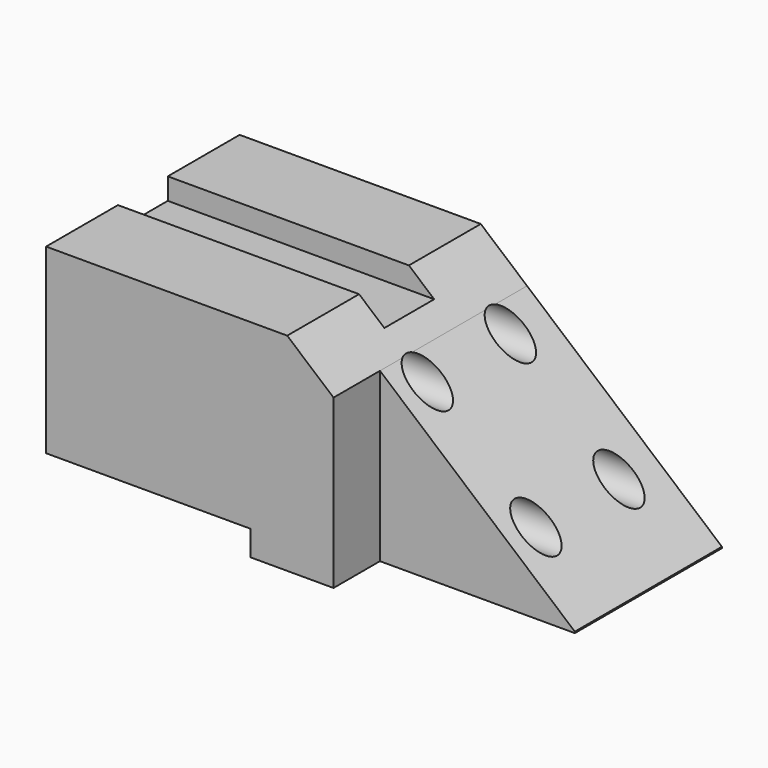
from build123d import *

# Parameters (mm, degrees)
F0_W      = 118.301205337
F0_H      = 59.3464635313
F1_DEPTH  = 50.8
F2_W      = 52.4965906516
F2_H      = 14.247585088
F3_DEPTH  = 112.014
F4_W      = 50.1409089193
F4_H      = 6.169681903
F5_DEPTH  = 123.19
F7_DEPTH  = 96.52
F8_W      = 15.2773074806
F8_H      = 5.2911678412
F9_DEPTH  = 203.962
F10_R     = 4.445
F11_DEPTH = 210.566


with BuildPart() as f1:
    # F0 (on Top) → F1 (new body)
    with BuildSketch(Plane.XY):
        Rectangle(F0_W, F0_H)
    extrude(amount=F1_DEPTH)

    # F2 (on face) → F3 (cut)
    with BuildSketch(Plane.XY.offset(50.8)):
        with Locations((37.6030090265, -22.5494392216)):
            Rectangle(F2_W, F2_H)
    extrude(amount=-F3_DEPTH, mode=Mode.SUBTRACT)

    # F4 (on face) → F5 (cut)
    with BuildSketch(Plane.XZ.offset(29.6732317656)):
        with Locations((-34.0801482089, 3.0848409515)):
            Rectangle(F4_W, F4_H)
    extrude(amount=-F5_DEPTH, mode=Mode.SUBTRACT)

    # F6 (on face) → F7 (cut)
    with BuildSketch(Plane.XZ.offset(29.6732317656)):
        Polygon((11.3547137007, 50.8), (0, 50.8), (11.3547137007, 41.1124470571), align=None)
        Polygon((11.3547137007, 50.8), (11.3547137007, 41.1124470571), (59.5423281193, 0), (59.5423281193, 50.8), align=None)
    extrude(amount=-F7_DEPTH, mode=Mode.SUBTRACT)

    # F8 (on face) → F9 (cut)
    with BuildSketch(Plane(origin=(-59.1506026685, 0, 0), x_dir=(0, -1, 0), z_dir=(-1, 0, 0))):
        with Locations((0, 48.1544160794)):
            Rectangle(F8_W, F8_H)
    extrude(amount=-F9_DEPTH, mode=Mode.SUBTRACT)

    # F10 (on face) → F11 (cut)
    with BuildSketch(Plane(origin=(-59.1506026685, 0, 0), x_dir=(0, -1, 0), z_dir=(-1, 0, 0))):
        with Locations((-18.4111148119, 36.9201600552)):
            Circle(F10_R)
        with Locations((7.0510655642, 36.9201600552)):
            Circle(F10_R)
        with Locations((7.0510655642, 14.2000615597)):
            Circle(F10_R)
        with Locations((-18.4111148119, 14.2000615597)):
            Circle(F10_R)
    extrude(amount=-F11_DEPTH, mode=Mode.SUBTRACT)


solid = f1.part
